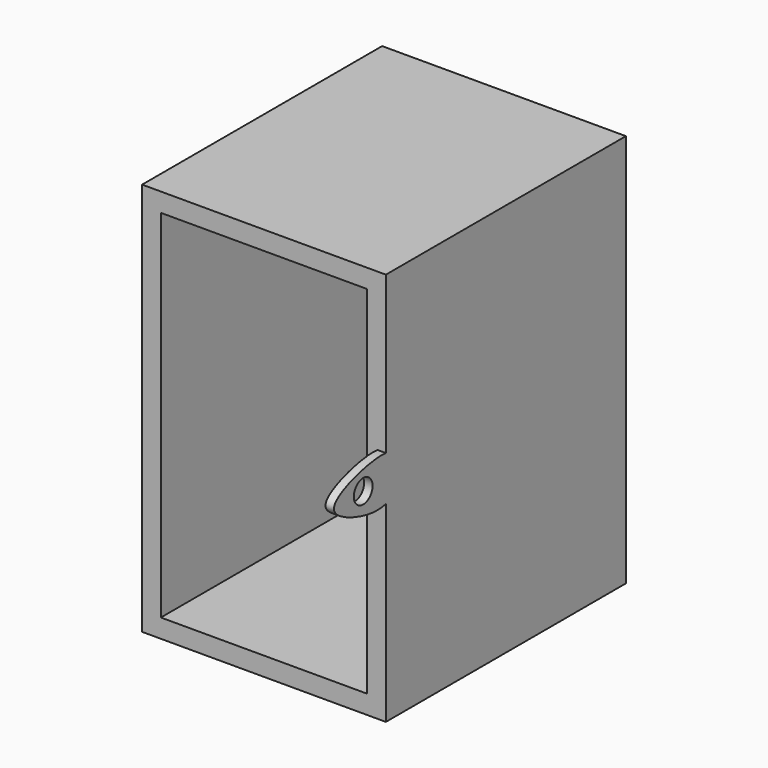
from build123d import *

# Parameters (mm, degrees)
F0_W     = 330.2
F0_H     = 533.4
F0_W_2   = 279.4
F0_H_2   = 482.6
F1_DEPTH = 381
F3_DEPTH = 11.43
F5_D     = 31.75
F6_W     = 330.2
F6_H     = 533.4
F7_DEPTH = 25.4


with BuildPart() as f1:
    # F0 (on Front) → F1 (new body)
    with BuildSketch(Plane.XZ):
        Rectangle(F0_W, F0_H)
        Rectangle(F0_W_2, F0_H_2, mode=Mode.SUBTRACT)
    extrude(amount=F1_DEPTH)

    # F2 (on face) → F3 (join)
    with BuildSketch(Plane.YZ.offset(165.1)):
        with BuildLine():
            add(Edge.make_bspline(
                [(-381, -6.6830463366), (-397.4427610563, -10.9233558088), (-440.2612759163, -2.0870202582), (-482.6984064218, 23.1422229449), (-443.5296874883, 46.3759759497), (-397.7583791554, 55.5903688255), (-381, 53.9625514371)],
                knots=[0.054305568, 0.054305568, 0.054305568, 0.054305568, 0.2287997299, 0.4012099815, 0.5729439025, 0.7296806034, 0.7296806034, 0.7296806034, 0.7296806034], degree=3))
            Line((-381, -6.6830463366), (-381, 53.9625514371))
        make_face()
        with BuildLine():
            add(Edge.make_bspline(
                [(-367.3923313618, 0), (-371.2589549432, -3.2025358081), (-375.8827314956, -5.3633894957), (-381, -6.6830463366)],
                knots=[0, 0, 0, 0, 0.054305568, 0.054305568, 0.054305568, 0.054305568], degree=3))
            add(Edge.make_bspline(
                [(-381, 53.9625514371), (-372.0113951219, 53.0894474703), (-347.8101498957, 44.708864678), (-354.1310052856, 10.9837098771), (-367.3923313618, 0)],
                knots=[0.7296806034, 0.7296806034, 0.7296806034, 0.7296806034, 0.8137486544, 1, 1, 1, 1], degree=3))
            Line((-381, 53.9625514371), (-381, -6.6830463366))
        make_face()
    extrude(amount=-F3_DEPTH)

    # F5 (through all)
    with Locations(Plane.YZ.offset(165.1)):
        with Locations((-419.4230139256, 24.0488089621)):
            Hole(F5_D / 2)

    # F6 (on face) → F7 (join)
    with BuildSketch(Plane(origin=(0, 0, 0), x_dir=(-1, 0, 0), z_dir=(0, 1, 0))):
        Rectangle(F6_W, F6_H)
    extrude(amount=F7_DEPTH)


solid = f1.part
